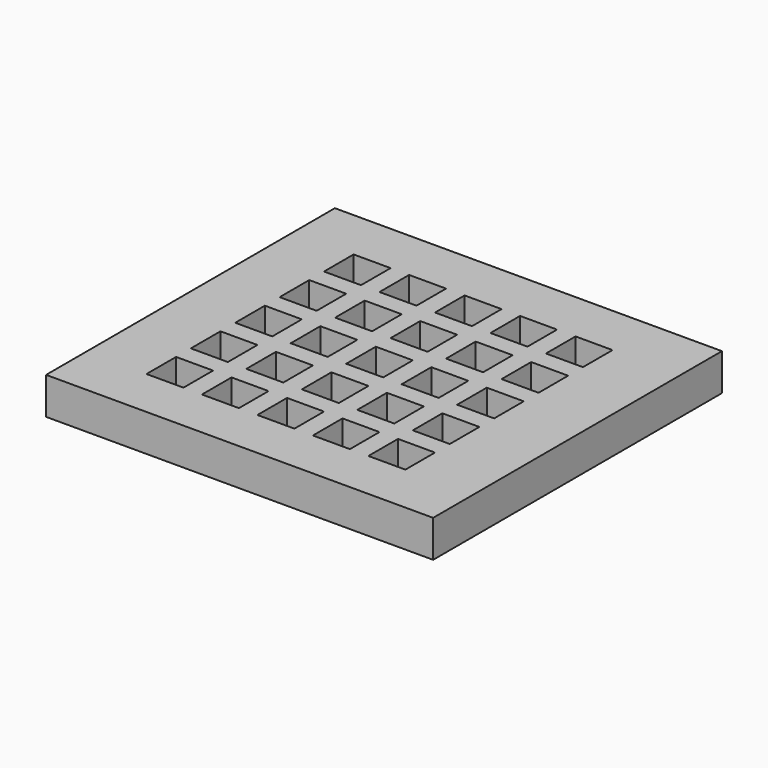
from build123d import *

# Parameters (mm, degrees)
F1_W     = 104.644717
F1_H     = 97.599118
F2_DEPTH = 10
F0_W     = 10
F0_H     = 10
F3_DEPTH = 25


with BuildPart() as f2:
    # F1 (on Top) → F2 (new body)
    with BuildSketch(Plane.XY):
        with Locations((26.015675, 35.25167)):
            Rectangle(F1_W, F1_H)
    extrude(amount=F2_DEPTH)

    # F0 (on Top) → F3 (cut)
    with BuildSketch(Plane.XY):
        with Locations((-5, 5)):
            Rectangle(F0_W, F0_H)
        with Locations((-5, 20)):
            Rectangle(F0_W, F0_H)
        with Locations((-5, 35)):
            Rectangle(F0_W, F0_H)
        with Locations((-5, 50)):
            Rectangle(F0_W, F0_H)
        with Locations((-5, 65)):
            Rectangle(F0_W, F0_H)
        with Locations((10, 5)):
            Rectangle(F0_W, F0_H)
        with Locations((10, 20)):
            Rectangle(F0_W, F0_H)
        with Locations((10, 35)):
            Rectangle(F0_W, F0_H)
        with Locations((10, 50)):
            Rectangle(F0_W, F0_H)
        with Locations((10, 65)):
            Rectangle(F0_W, F0_H)
        with Locations((25, 5)):
            Rectangle(F0_W, F0_H)
        with Locations((25, 20)):
            Rectangle(F0_W, F0_H)
        with Locations((25, 35)):
            Rectangle(F0_W, F0_H)
        with Locations((25, 50)):
            Rectangle(F0_W, F0_H)
        with Locations((25, 65)):
            Rectangle(F0_W, F0_H)
        with Locations((40, 5)):
            Rectangle(F0_W, F0_H)
        with Locations((40, 20)):
            Rectangle(F0_W, F0_H)
        with Locations((40, 35)):
            Rectangle(F0_W, F0_H)
        with Locations((40, 50)):
            Rectangle(F0_W, F0_H)
        with Locations((40, 65)):
            Rectangle(F0_W, F0_H)
        with Locations((55, 5)):
            Rectangle(F0_W, F0_H)
        with Locations((55, 20)):
            Rectangle(F0_W, F0_H)
        with Locations((55, 35)):
            Rectangle(F0_W, F0_H)
        with Locations((55, 50)):
            Rectangle(F0_W, F0_H)
        with Locations((55, 65)):
            Rectangle(F0_W, F0_H)
    extrude(amount=F3_DEPTH, mode=Mode.SUBTRACT)


solid = f2.part
